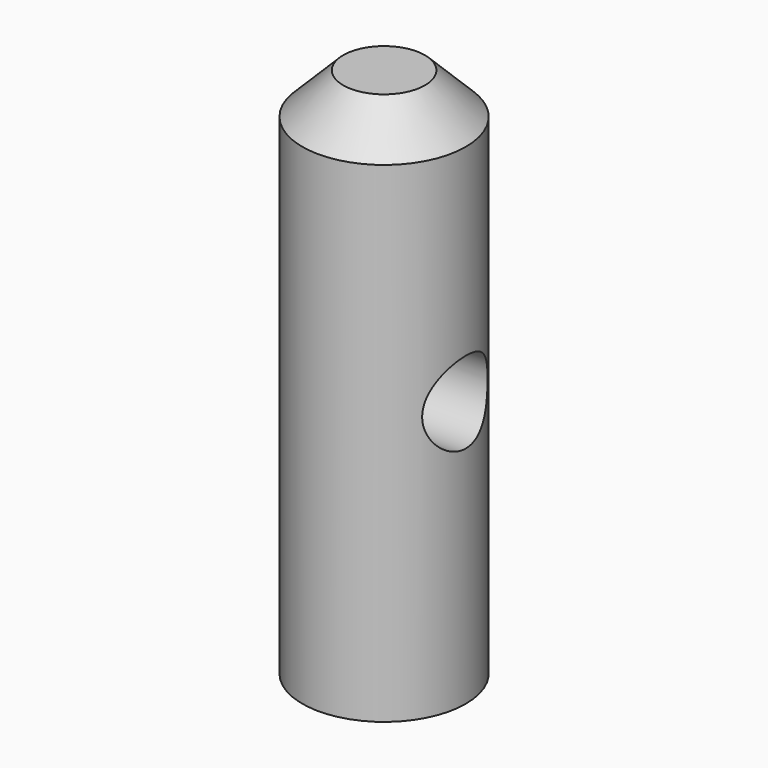
from build123d import *

# Parameters (mm, degrees)
F0_R     = 3.175
F1_DEPTH = 20.6375
F2_SIZE  = 1.5875
F3_R     = 1.5875
F4_DEPTH = 12.7


with BuildPart() as f1:
    # F0 (on Top) → F1 (new body)
    with BuildSketch(Plane.XY):
        Circle(F0_R)
    extrude(amount=F1_DEPTH)

    # F2
    f2_edges = [f1.edges().sort_by_distance(p)[0] for p in [
        (-3.175, 0, 20.6375),
    ]]
    chamfer(f2_edges, length=F2_SIZE)

    # F3 (on Right) → F4 (cut, symmetric)
    with BuildSketch(Plane.YZ):
        with Locations((0, 10.31875)):
            Circle(F3_R)
    extrude(amount=F4_DEPTH, both=True, mode=Mode.SUBTRACT)


solid = f1.part
